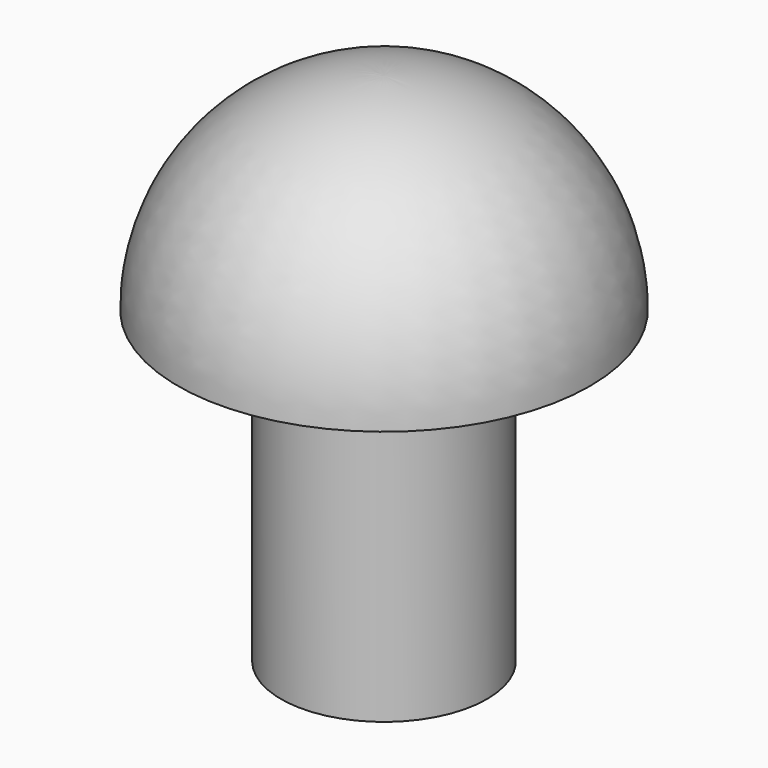
from build123d import *

# Parameters (mm, degrees)
F2_R     = 1
F3_DEPTH = 3


with BuildPart() as f1:
    # F0 (on Front) → F1 (revolve)
    with BuildSketch(Plane.XZ):
        with BuildLine():
            Line((0, 0), (2, 0))
            ThreePointArc((2, 0), (1.414214, 1.414214), (0, 2))
            Line((0, 2), (0, 0))
        make_face()
    revolve(axis=Axis((0, 0, 1), (0, 0, -1)))

    # F2 (on face) → F3 (join)
    with BuildSketch(Plane(origin=(0, 0, 0), x_dir=(1, 0, 0), z_dir=(0, 0, -1))):
        Circle(F2_R)
    extrude(amount=F3_DEPTH)


solid = f1.part
